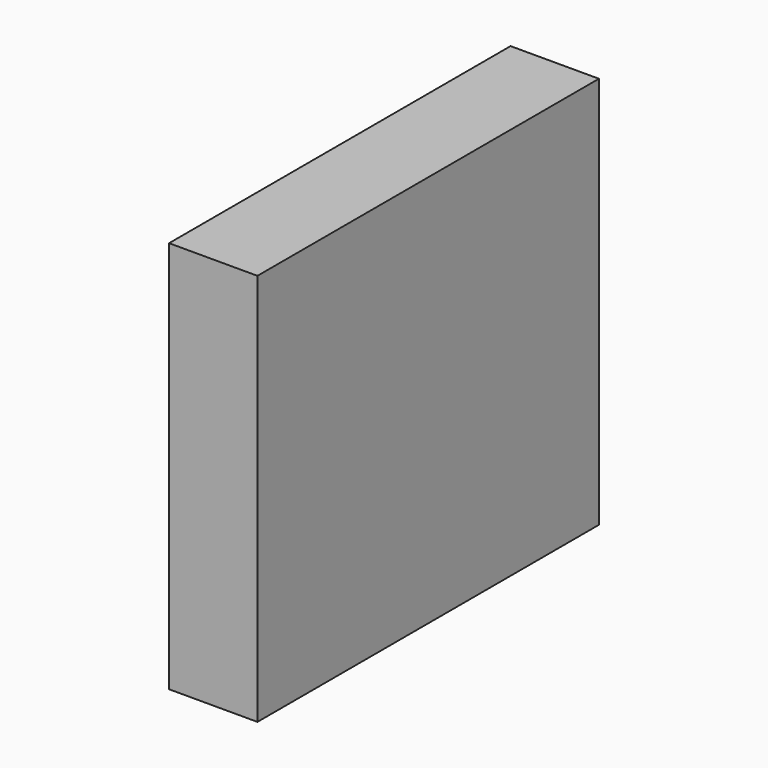
from build123d import *

# Parameters (mm, degrees)
SKETCH001_W      = 3.912567
SKETCH001_H      = 70.604042
EXTRUDE_DEPTH    = 420
SKETCH002_W      = 90.522564
SKETCH002_H      = 3.912567
EXTRUDE001_DEPTH = 420
SKETCH003_W      = 4.801788
SKETCH003_H      = 72.02679
EXTRUDE002_DEPTH = 420
SKETCH004_W      = 92.478852
SKETCH004_H      = 4.623944
EXTRUDE003_DEPTH = 420
SKETCH005_W      = 89.144947
SKETCH005_H      = 67.124008
EXTRUDE004_DEPTH = 5
SKETCH006_W      = 772.690033
SKETCH006_H      = 710.927407
EXTRUDE005_DEPTH = 160


with BuildPart() as extrude_body:
    # Sketch001 (on Sketch) → Extrude (new body)
    with BuildSketch(Plane.XY):
        with Locations((-41.793323, -0.355686)):
            Rectangle(SKETCH001_W, SKETCH001_H)
    extrude(amount=EXTRUDE_DEPTH)


with BuildPart() as extrude001:
    # Sketch002 (on Sketch) → Extrude001 (new body)
    with BuildSketch(Plane.XY):
        with Locations((1.155989, -32.278672)):
            Rectangle(SKETCH002_W, SKETCH002_H)
    extrude(amount=EXTRUDE001_DEPTH)


with BuildPart() as extrude002:
    # Sketch003 (on Sketch) → Extrude002 (new body)
    with BuildSketch(Plane.XY):
        with Locations((42.415775, -2e-06)):
            Rectangle(SKETCH003_W, SKETCH003_H)
    extrude(amount=EXTRUDE002_DEPTH)


with BuildPart() as extrude003:
    # Sketch004 (on Sketch) → Extrude003 (new body)
    with BuildSketch(Plane.XY):
        with Locations((0.177845, 32.100832)):
            Rectangle(SKETCH004_W, SKETCH004_H)
    extrude(amount=EXTRUDE003_DEPTH)


with BuildPart() as excitation:
    # Sketch005 (on Face5 of Extrude003) → Extrude004 (new body)
    with BuildSketch(Plane(origin=(0, 0, 0), x_dir=(1, 0, 0), z_dir=(0, 0, -1))):
        with Locations((0.654723, 0.120262)):
            Rectangle(SKETCH005_W, SKETCH005_H)
    extrude(amount=-EXTRUDE004_DEPTH)


with BuildPart() as simbox:
    # Sketch006 → Extrude005 (new body)
    with BuildSketch(Plane.YZ.offset(-80)):
        with Locations((10.557969, 239.952434)):
            Rectangle(SKETCH006_W, SKETCH006_H)
    extrude(amount=EXTRUDE005_DEPTH)


solid = Compound([extrude_body.part, extrude001.part, extrude002.part, extrude003.part, excitation.part, simbox.part])
